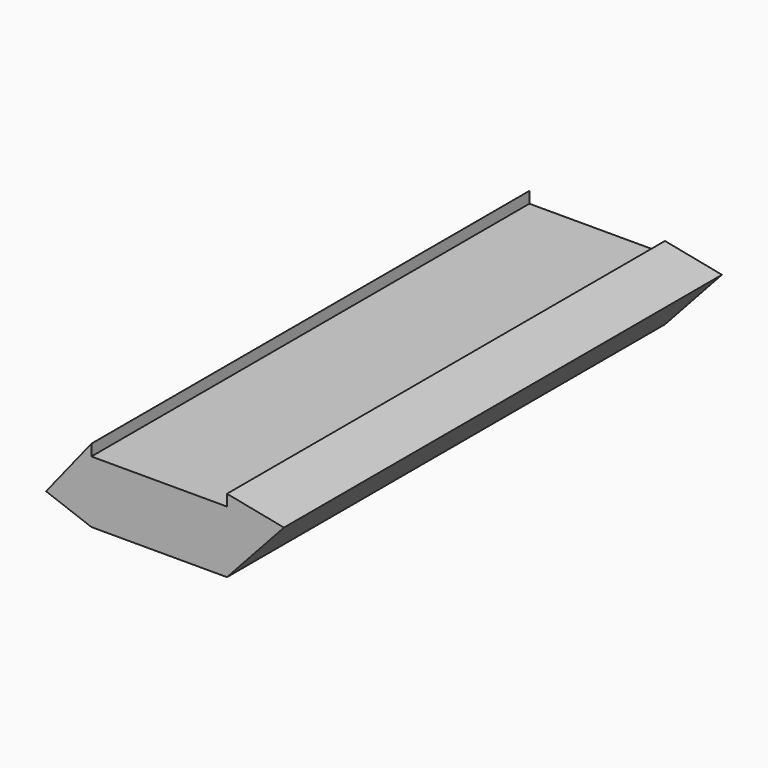
from build123d import *

# Parameters (mm, degrees)
F0_W     = 304.620832
F0_H     = 164.982135
F1_DEPTH = 1230
F2_W     = 304.620832
F2_H     = 1230
F3_DEPTH = 25.4


with BuildPart() as f1:
    # F0 (on Front) → F1 (new body)
    with BuildSketch(Plane.XZ):
        with Locations((0, -3.455801)):
            Rectangle(F0_W, F0_H)
        Polygon((-152.310416, -85.946868), (-152.310416, 79.035267), (-254.135907, -48.334189), align=None)
        Polygon((280.234069, 53.728882), (152.310416, 79.035267), (152.310416, -85.946868), align=None)
    extrude(amount=F1_DEPTH)

    # F2 (on face) → F3 (cut)
    with BuildSketch(Plane.XY.offset(79.035267)):
        with Locations((0, -615)):
            Rectangle(F2_W, F2_H)
    extrude(amount=-F3_DEPTH, mode=Mode.SUBTRACT)


solid = f1.part
